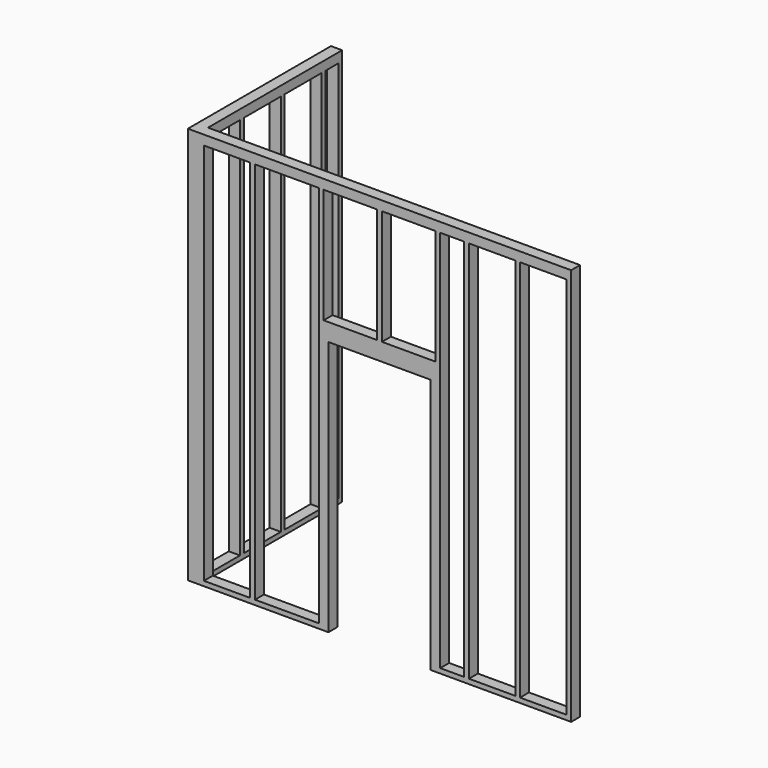
from build123d import *

# Parameters (mm, degrees)
F1_DEPTH = 3162.3
F2_W     = 368.3
F2_H     = 3048
F2_W_2   = 127
F3_DEPTH = 88.9
F4_W     = 812.8
F4_H     = 2032
F5_DEPTH = 1422.401
F6_W     = 368.3
F6_H     = 3048
F6_W_2   = 508
F6_W_3   = 190.5
F6_W_4   = 425.45
F6_H_2   = 914.4
F7_DEPTH = 88.9


with BuildPart() as f1:
    # F0 (on Top) → F1 (new body)
    with BuildSketch(Plane.XY):
        Polygon((0, 1422.4), (0, 0), (3048, 0), (3048, 88.9), (88.9, 88.9), (88.9, 1422.4), align=None)
    extrude(amount=F1_DEPTH)

    # F2 (on face) → F3 (cut)
    with BuildSketch(Plane(origin=(0, 0, 0), x_dir=(0, -1, 0), z_dir=(-1, 0, 0))):
        with Locations((-222.25, 1562.1)):
            Rectangle(F2_W, F2_H)
        with Locations((-628.65, 1562.1)):
            Rectangle(F2_W, F2_H)
        with Locations((-1035.05, 1562.1)):
            Rectangle(F2_W, F2_H)
        with Locations((-1320.8, 1562.1)):
            Rectangle(F2_W_2, F2_H)
    extrude(amount=-F3_DEPTH, mode=Mode.SUBTRACT)

    # F4 (on face) → F5 (cut, through all)
    with BuildSketch(Plane.XZ):
        with Locations((1524, 1016)):
            Rectangle(F4_W, F4_H)
    extrude(amount=-F5_DEPTH, mode=Mode.SUBTRACT)

    # F6 (on face) → F7 (cut)
    with BuildSketch(Plane.XZ):
        with Locations((311.15, 1562.1)):
            Rectangle(F6_W, F6_H)
        with Locations((787.4, 1562.1)):
            Rectangle(F6_W_2, F6_H)
        with Locations((2825.75, 1562.1)):
            Rectangle(F6_W, F6_H)
        with Locations((2419.35, 1562.1)):
            Rectangle(F6_W, F6_H)
        with Locations((2101.85, 1562.1)):
            Rectangle(F6_W_3, F6_H)
        with Locations((1292.225, 2628.9)):
            Rectangle(F6_W_4, F6_H_2)
        with Locations((1755.775, 2628.9)):
            Rectangle(F6_W_4, F6_H_2)
    extrude(amount=-F7_DEPTH, mode=Mode.SUBTRACT)


solid = f1.part
